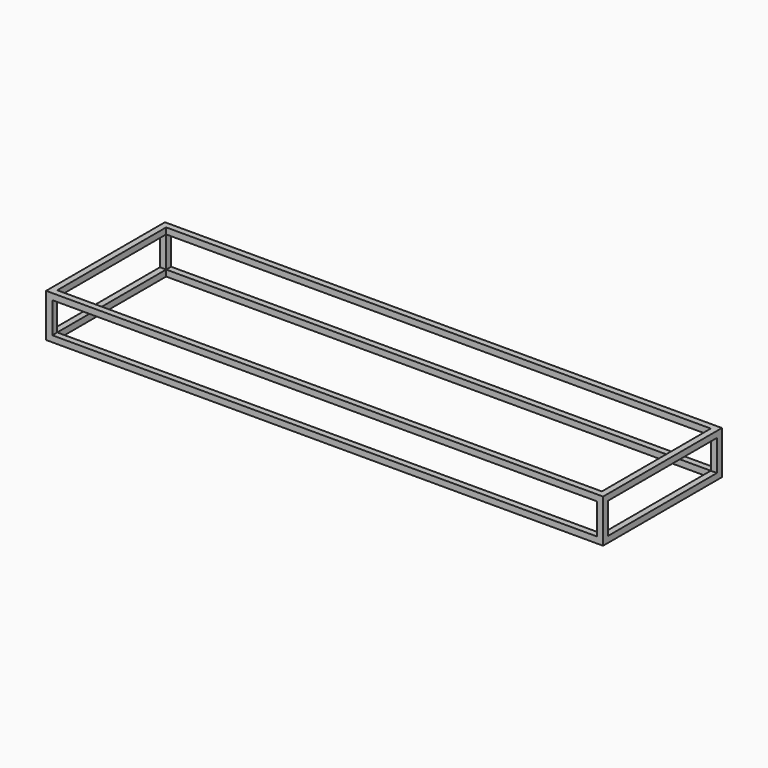
from build123d import *

# Parameters (mm, degrees)
F0_W     = 25.4
F0_H     = 25.4
F0_W_2   = 2235.2
F0_H_2   = 558.8
F1_DEPTH = 25.4
F2_DEPTH = 152.4
F4_W     = 2286
F4_H     = 609.6
F4_W_2   = 2235.2
F4_H_2   = 558.8
F5_DEPTH = 25.4


with BuildPart() as f1:
    # F0 (on Top) → F1 (new body)
    with BuildSketch(Plane.XY):
        with Locations((-1130.3, -292.1)):
            Rectangle(F0_W, F0_H)
        with Locations((0, -292.1)):
            Rectangle(F0_W_2, F0_H)
        with Locations((-1130.3, 0)):
            Rectangle(F0_W, F0_H_2)
        with Locations((1130.3, -292.1)):
            Rectangle(F0_W, F0_H)
        with Locations((-1130.3, 292.1)):
            Rectangle(F0_W, F0_H)
        with Locations((1130.3, 0)):
            Rectangle(F0_W, F0_H_2)
        with Locations((0, 292.1)):
            Rectangle(F0_W_2, F0_H)
        with Locations((1130.3, 292.1)):
            Rectangle(F0_W, F0_H)
    extrude(amount=-F1_DEPTH)

    # F0 (on Top) → F2 (join)
    with BuildSketch(Plane.XY):
        with Locations((-1130.3, 292.1)):
            Rectangle(F0_W, F0_H)
        with Locations((-1130.3, -292.1)):
            Rectangle(F0_W, F0_H)
        with Locations((1130.3, 292.1)):
            Rectangle(F0_W, F0_H)
        with Locations((1130.3, -292.1)):
            Rectangle(F0_W, F0_H)
    extrude(amount=F2_DEPTH)

    # F4 (on offset) → F5 (join)
    with BuildSketch(Plane.XY.offset(152.4)):
        Rectangle(F4_W, F4_H)
        Rectangle(F4_W_2, F4_H_2, mode=Mode.SUBTRACT)
    extrude(amount=-F5_DEPTH)


solid = f1.part
